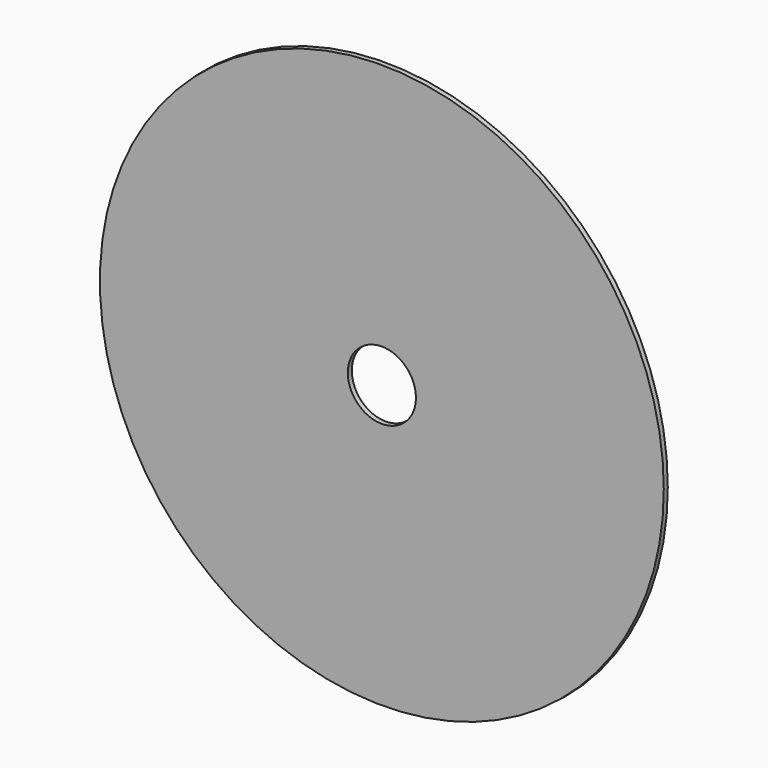
from build123d import *

# Parameters (mm, degrees)
F0_R     = 1524
F0_R_2   = 184.15
F1_DEPTH = 25.4
F1_TAPER = -3


with BuildPart() as f1:
    # F0 (on Front) → F1 (new body)
    with BuildSketch(Plane.XZ):
        Circle(F0_R)
        Circle(F0_R_2, mode=Mode.SUBTRACT)
    extrude(amount=-F1_DEPTH, taper=F1_TAPER)


solid = f1.part
